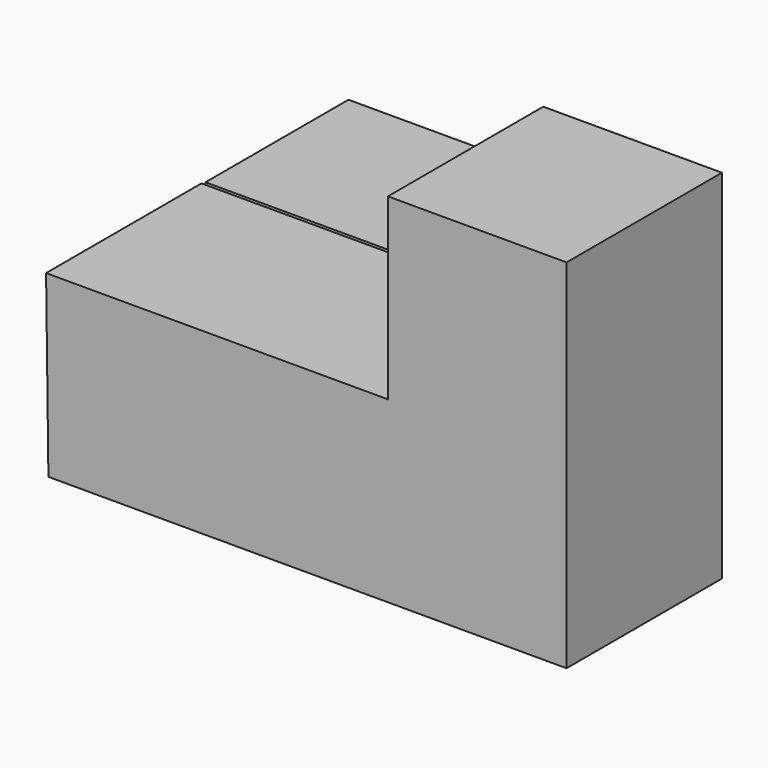
from build123d import *

# Parameters (mm, degrees)
F0_W     = 23
F0_H     = 23
F1_DEPTH = 25
F2_W     = 43.200003
F2_H     = 23.100001
F3_DEPTH = 23


with BuildPart() as f1:
    # F0 (on Front) → F1 (new body)
    with BuildSketch(Plane.XZ):
        Polygon((14.826191, 10.19932), (-29.173809, 10.19932), (-28.874489, -12.80068), (14.826191, -12.80068), align=None)
        with Locations((26.326191, -1.30068)):
            Rectangle(F0_W, F0_H)
        with Locations((26.326191, 21.69932)):
            Rectangle(F0_W, F0_H)
    extrude(amount=F1_DEPTH)

    # F2 (on Front) → F3 (join)
    with BuildSketch(Plane.XZ):
        with Locations((-7.050002, -1.05)):
            Rectangle(F2_W, F2_H)
    extrude(amount=-F3_DEPTH)


solid = f1.part
